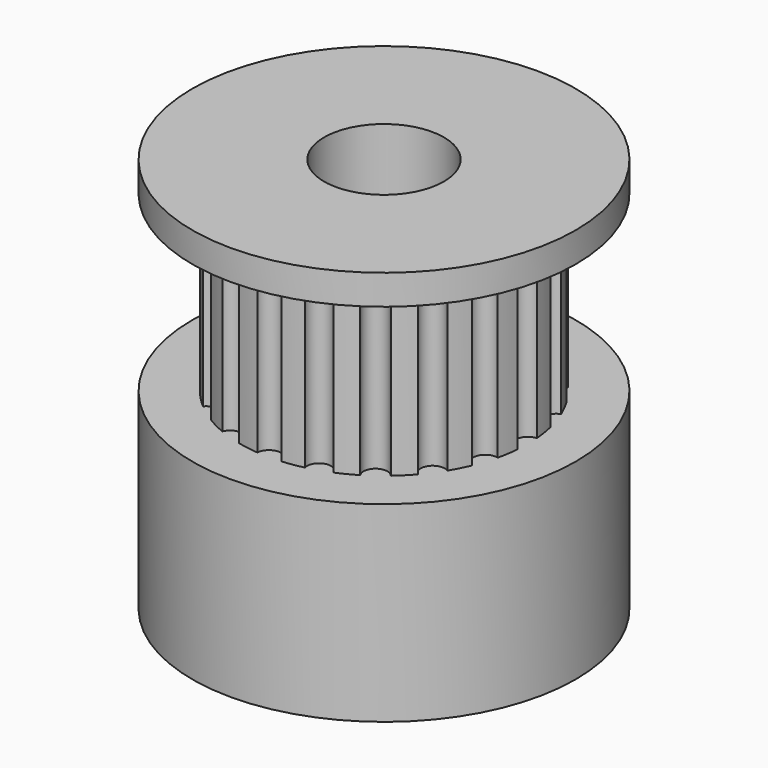
from build123d import *

# Parameters (mm, degrees)
SKETCH025_R              = 8
PAD014_DEPTH             = 8
SKETCH026_R              = 6
PAD015_DEPTH             = 7.25
SKETCH027_R              = 0.5
POCKET008_DEPTH          = 7.25
POLARPATTERN_COUNT       = 20
SKETCH028_R              = 8
PAD016_DEPTH             = 1.25
SKETCH029_R              = 2.5
POCKET009_DEPTH          = 16.5
CLONE010_PLACEMENT_ANGLE = 180


with BuildPart() as part:
    # Sketch025 → Pad014 (new body)
    with BuildSketch(Plane(origin=(20, -80, 0), x_dir=(1, 0, 0), z_dir=(0, 0, -1))):
        Circle(SKETCH025_R)
    extrude(amount=PAD014_DEPTH)

    # Sketch026 → Pad015 (new body)
    with BuildSketch(Plane(origin=(20, -80, -8), x_dir=(1, 0, 0), z_dir=(0, 0, -1))):
        Circle(SKETCH026_R)
    extrude(amount=PAD015_DEPTH)

    # Sketch027 → Pocket008 (cut)
    with BuildSketch(Plane(origin=(20, -80, -15.25), x_dir=(1, 0, 0), z_dir=(0, 0, -1))):
        with Locations((6, 0)):
            Circle(SKETCH027_R)
    pocket008 = extrude(amount=-POCKET008_DEPTH, mode=Mode.SUBTRACT)

    # PolarPattern: Pocket008 ×20 about axis
    polarpattern_axis = Axis((20, -80, -15.25), (0, 0, -1))
    for i in range(1, POLARPATTERN_COUNT):
        add(pocket008.rotate(polarpattern_axis, i * 360 / POLARPATTERN_COUNT), mode=Mode.SUBTRACT)

    # Sketch028 → Pad016 (new body)
    with BuildSketch(Plane(origin=(20, -80, -15.25), x_dir=(1, 0, 0), z_dir=(0, 0, -1))):
        Circle(SKETCH028_R)
    extrude(amount=PAD016_DEPTH)

    # Sketch029 → Pocket009 (cut)
    with BuildSketch(Plane(origin=(20, -80, -16.5), x_dir=(1, 0, 0), z_dir=(0, 0, -1))):
        Circle(SKETCH029_R)
    extrude(amount=-POCKET009_DEPTH, mode=Mode.SUBTRACT)


with BuildPart() as part_1:
    # Clone010 placement: moved
    add(part.part.moved(Location((120, -212, -5))).rotate(Axis((120, -212, -5), (-1, 0, 0)), CLONE010_PLACEMENT_ANGLE))


solid = part_1.part
